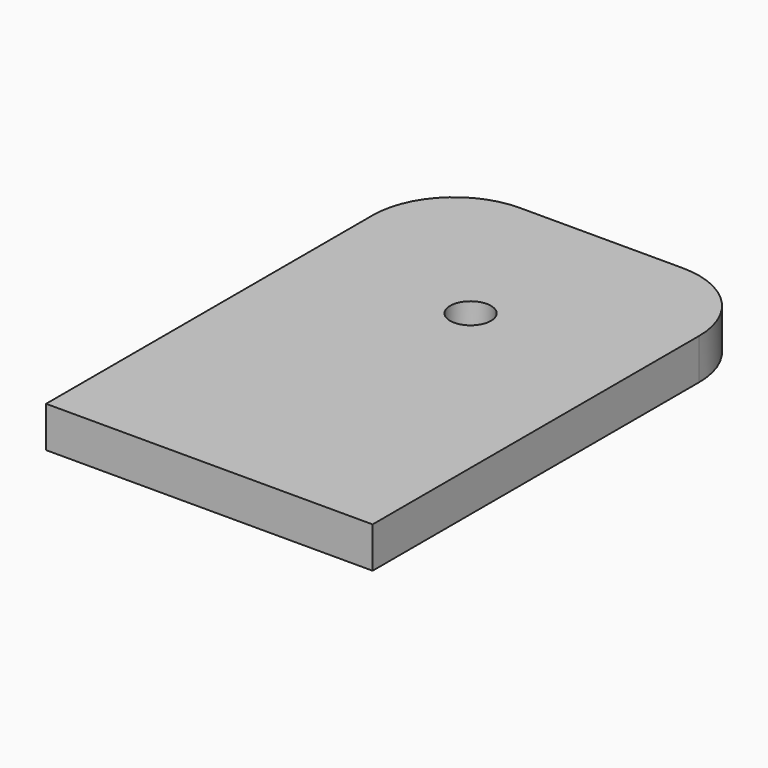
from build123d import *

# Parameters (mm, degrees)
F0_R     = 1.5875
F1_DEPTH = 3.175


with BuildPart() as f1:
    # F0 (on Top) → F1 (new body)
    with BuildSketch(Plane.XY):
        with BuildLine():
            Line((19.05, 0), (6.35, 0))
            ThreePointArc((6.35, 0), (1.859872, -1.859872), (0, -6.35))
            Line((0, -6.35), (0, -38.1))
            Line((0, -38.1), (25.4, -38.1))
            Line((25.4, -38.1), (25.4, -6.35))
            ThreePointArc((25.4, -6.35), (23.540128, -1.859872), (19.05, 0))
        make_face()
        with Locations((12.7, -12.7)):
            Circle(F0_R, mode=Mode.SUBTRACT)
    extrude(amount=F1_DEPTH)


solid = f1.part
